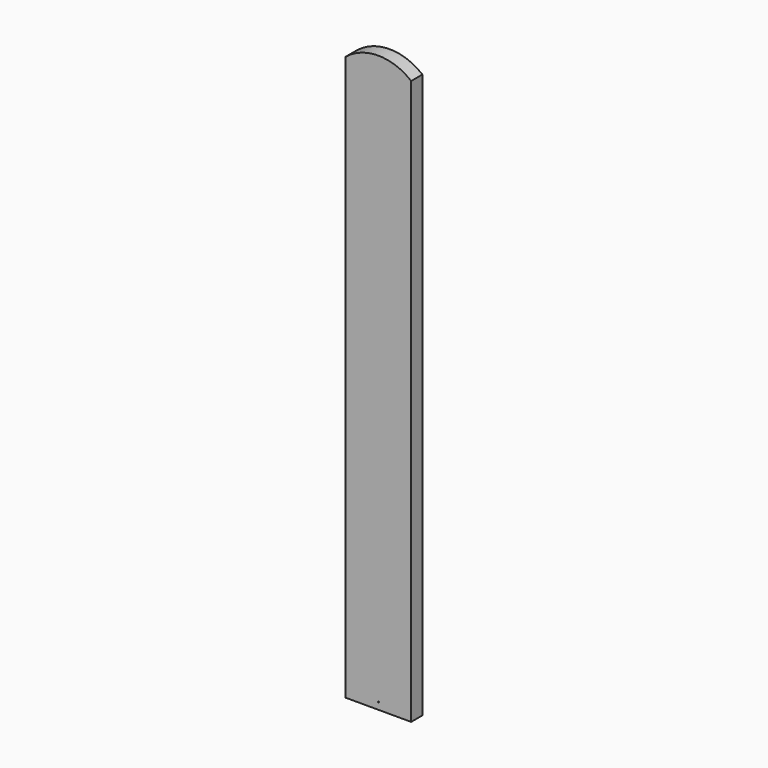
from build123d import *

# Parameters (mm, degrees)
F1_DEPTH = 19.05
F2_R     = 0.635
F3_DEPTH = 19.051


with BuildPart() as f1:
    # F0 (on Front) → F1 (new body)
    with BuildSketch(Plane.XZ):
        with BuildLine():
            Line((-44.45, 374.65), (-44.45, -390.525))
            Line((-44.45, -390.525), (44.45, -390.525))
            Line((44.45, -390.525), (44.45, 374.65))
            ThreePointArc((44.45, 374.65), (0, 390.493247), (-44.45, 374.65))
        make_face()
    extrude(amount=F1_DEPTH)

    # F2 (on face) → F3 (cut, through all)
    with BuildSketch(Plane(origin=(0, 0, 0), x_dir=(-1, 0, 0), z_dir=(0, 1, 0))):
        with Locations((0, -381)):
            Circle(F2_R)
    extrude(amount=-F3_DEPTH, mode=Mode.SUBTRACT)


solid = f1.part
